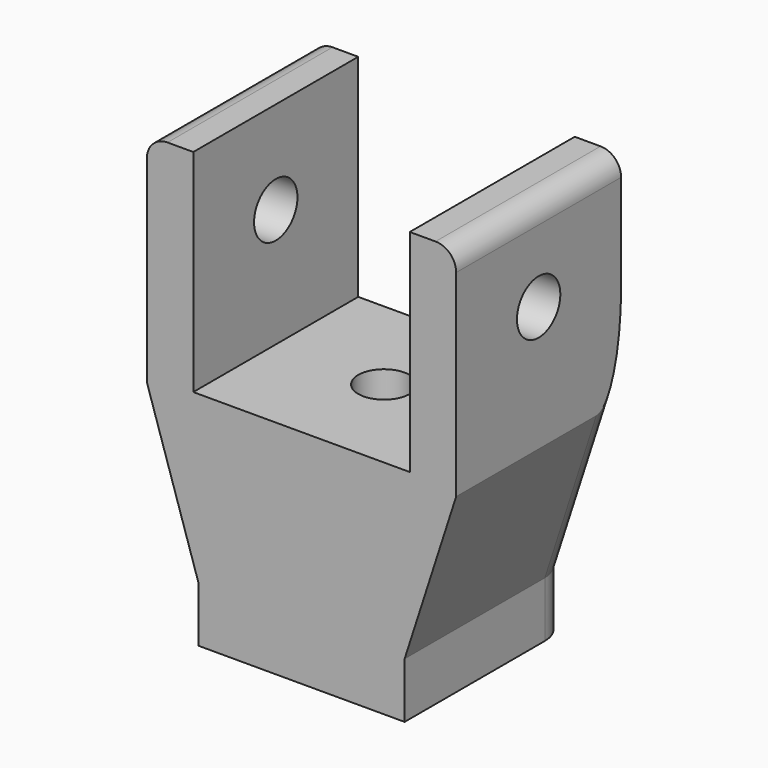
from build123d import *

# Parameters (mm, degrees)
PAD030_DEPTH         = 20
SKETCH094_R          = 2.5
POCKET048_DEPTH      = 42.001
POCKET048_DEPTH_BACK = 0.001
SKETCH095_R          = 2.63
POCKET049_DEPTH      = 30.001
POCKET049_DEPTH_BACK = 0.001
FILLET_R             = 3


with BuildPart() as part:
    # Sketch090 → Pad030 (new body)
    with BuildSketch(Plane(origin=(0, 92, 0), x_dir=(-1, 0, 0), z_dir=(0, 1, 0))):
        with BuildLine():
            Line((-13, 31), (-10.5, 31))
            Line((-10.5, 10.5), (-10.5, 31))
            Line((10.5, 10.5), (-10.5, 10.5))
            Line((10.5, 31), (10.5, 10.5))
            Line((10.5, 31), (13, 31))
            ThreePointArc((15, 29), (14.414214, 30.414214), (13, 31))
            Line((15, 29), (15, 9.872425))
            Line((10, -5.614149), (15, 9.872425))
            Line((10, -5.614149), (10, -11))
            Line((10, -11), (-10, -11))
            Line((-10, -11), (-10, -5.614149))
            Line((-10, -5.614149), (-15, 9.872425))
            Line((-15, 9.872425), (-15, 29))
            ThreePointArc((-13, 31), (-14.414214, 30.414214), (-15, 29))
        make_face()
    extrude(amount=-PAD030_DEPTH)

    # Sketch094 → Pocket048 (cut, two sides)
    with BuildSketch(Plane(origin=(0, 0, -11), x_dir=(-1, 0, 0), z_dir=(0, 0, -1))) as pocket048_sk:
        with Locations((0, 82)):
            Circle(SKETCH094_R)
    extrude(amount=-POCKET048_DEPTH, mode=Mode.SUBTRACT)
    extrude(pocket048_sk.sketch, amount=POCKET048_DEPTH_BACK, mode=Mode.SUBTRACT)

    # Sketch095 → Pocket049 (cut, two sides)
    with BuildSketch(Plane(origin=(15, 82, 0), x_dir=(0, 1, 0), z_dir=(1, 0, 0))) as pocket049_sk:
        with Locations((0, 22)):
            Circle(SKETCH095_R)
    extrude(amount=-POCKET049_DEPTH, mode=Mode.SUBTRACT)
    extrude(pocket049_sk.sketch, amount=POCKET049_DEPTH_BACK, mode=Mode.SUBTRACT)

    # Fillet
    fillet_edges = [part.edges().sort_by_distance(p)[0] for p in [
        (-12.5, 92, 2.129138),
        (-10, 92, -8.307075),
        (10, 92, -8.307075),
        (12.5, 92, 2.129138),
    ]]
    fillet(fillet_edges, radius=FILLET_R)


solid = part.part
